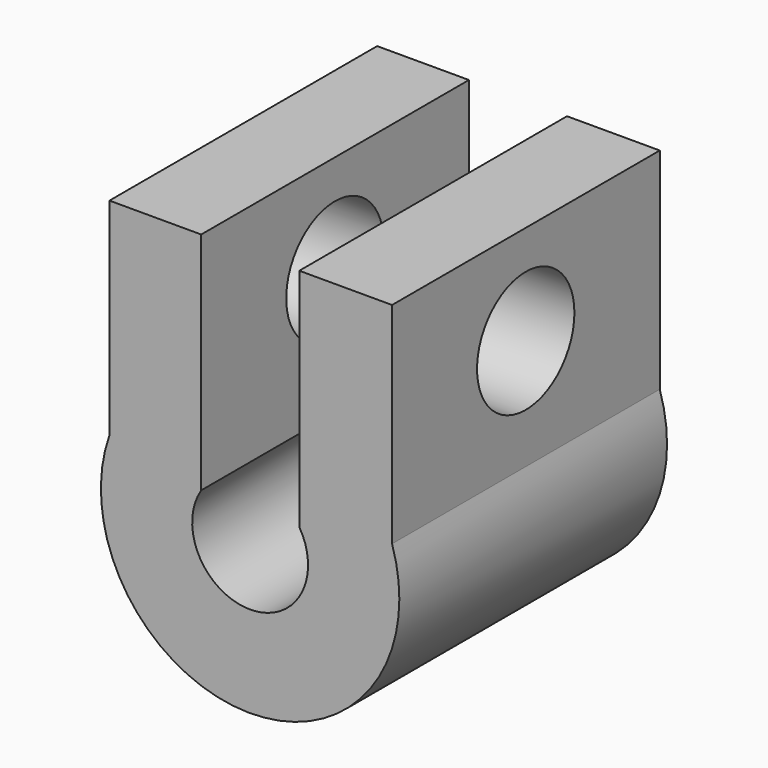
from build123d import *

# Parameters (mm, degrees)
F1_DEPTH = 22
F2_R     = 4
F3_DEPTH = 18.579489


with BuildPart() as f1:
    # F0 (on Front) → F1 (new body)
    with BuildSketch(Plane.XZ):
        with BuildLine():
            ThreePointArc((3.232615, 2.016507), (-0.015975, -3.809967), (-3.215592, 2.043544))
            Line((-3.215592, 2.043544), (-3.215592, 16.849984))
            Line((-3.215592, 16.849984), (-9.248437, 16.849984))
            Line((-9.248437, 16.849984), (-9.248437, 3.271468))
            ThreePointArc((-9.248437, 3.271468), (-0.128645, -9.809156), (9.331051, 3.027802))
            Line((9.331051, 3.027802), (9.331051, 16.849984))
            Line((9.331051, 16.849984), (3.232615, 16.849984))
            Line((3.232615, 16.849984), (3.232615, 2.016507))
        make_face()
    extrude(amount=F1_DEPTH)

    # F2 (on face) → F3 (cut, through all)
    with BuildSketch(Plane.YZ.offset(9.331051)):
        with Locations((-11.015, 10.309984)):
            Circle(F2_R)
    extrude(amount=-F3_DEPTH, mode=Mode.SUBTRACT)


solid = f1.part
